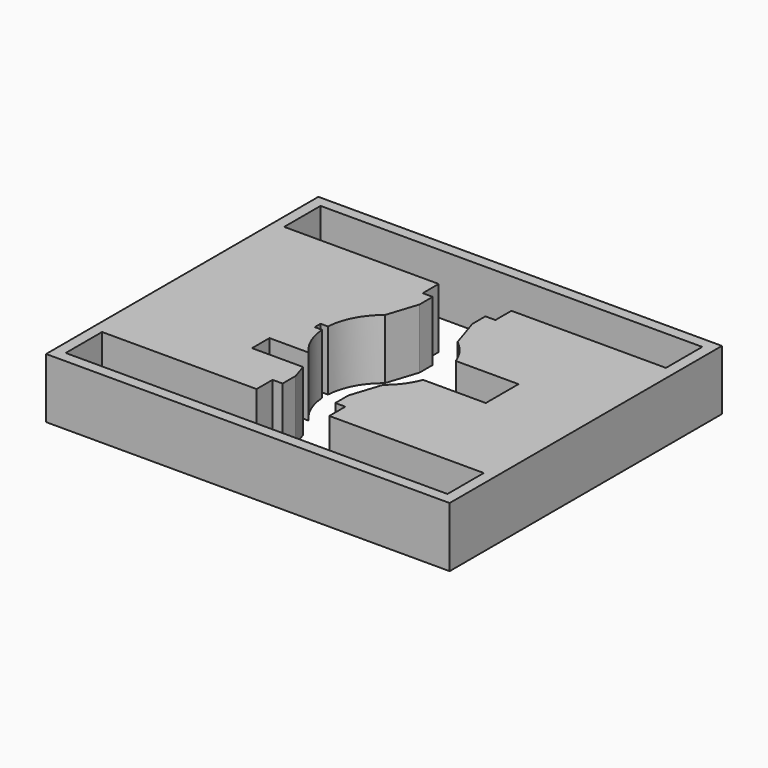
from build123d import *

# Parameters (mm, degrees)
F0_W     = 44.4
F0_H     = 37.447
F1_DEPTH = 6.6


with BuildPart() as f1:
    # F0 (on Top) → F1 (new body)
    with BuildSketch(Plane.XY):
        Rectangle(F0_W, F0_H)
        with BuildLine():
            ThreePointArc((6.098155, -2.25), (5.249514, -3.833093), (4, -5.123475))
            Line((4, -5.123475), (2.9, -8.523475))
            Line((2.9, -8.523475), (2.9, -10.323475))
            Line((2.9, -10.323475), (4, -10.323475))
            Line((4, -10.323475), (4, -12.523475))
            Line((4, -12.523475), (21, -12.523475))
            Line((21, -12.523475), (21, -17.523475))
            Line((21, -17.523475), (0, -17.523475))
            Line((0, -17.523475), (-21, -17.523475))
            Line((-21, -17.523475), (-21, -12.523475))
            Line((-21, -12.523475), (-4, -12.523475))
            Line((-4, -12.523475), (-4, -10.323475))
            Line((-4, -10.323475), (-2.9, -10.323475))
            Line((-2.9, -10.323475), (-2.9, -8.523475))
            Line((-2.9, -8.523475), (-3.45, -6.823475))
            Line((-3.45, -6.823475), (-9.062653, -6.823475))
            Line((-9.062653, -6.823475), (-9.062653, -4.423475))
            Line((-9.062653, -4.423475), (-4.762653, -4.423475))
            ThreePointArc((-4.762653, -4.423475), (-5.974077, -2.561329), (-6.487681, -0.4))
            Line((-6.487681, -0.4), (-7.3, -0.4))
            Line((-7.3, -0.4), (-7.3, 0))
            Line((-7.3, 0), (-7.3, 0.4))
            Line((-7.3, 0.4), (-6.487681, 0.4))
            ThreePointArc((-6.487681, 0.4), (-5.751145, 3.028916), (-4, 5.123475))
            Line((-4, 5.123475), (-2.9, 8.523475))
            Line((-2.9, 8.523475), (-2.9, 10.323475))
            Line((-2.9, 10.323475), (-4, 10.323475))
            Line((-4, 10.323475), (-4, 12.523475))
            Line((-4, 12.523475), (-21, 12.523475))
            Line((-21, 12.523475), (-21, 17.523475))
            Line((-21, 17.523475), (0, 17.523475))
            Line((0, 17.523475), (21, 17.523475))
            Line((21, 17.523475), (21, 12.523475))
            Line((21, 12.523475), (4, 12.523475))
            Line((4, 12.523475), (4, 10.523475))
            Line((4, 10.523475), (4, 10.323475))
            Line((4, 10.323475), (2.9, 10.323475))
            Line((2.9, 10.323475), (2.9, 8.523475))
            Line((2.9, 8.523475), (4, 5.123475))
            ThreePointArc((4, 5.123475), (5.249514, 3.833093), (6.098155, 2.25))
            Line((6.098155, 2.25), (13, 2.25))
            Line((13, 2.25), (13, -2.25))
            Line((13, -2.25), (6.098155, -2.25))
        make_face(mode=Mode.SUBTRACT)
    extrude(amount=F1_DEPTH)


solid = f1.part
